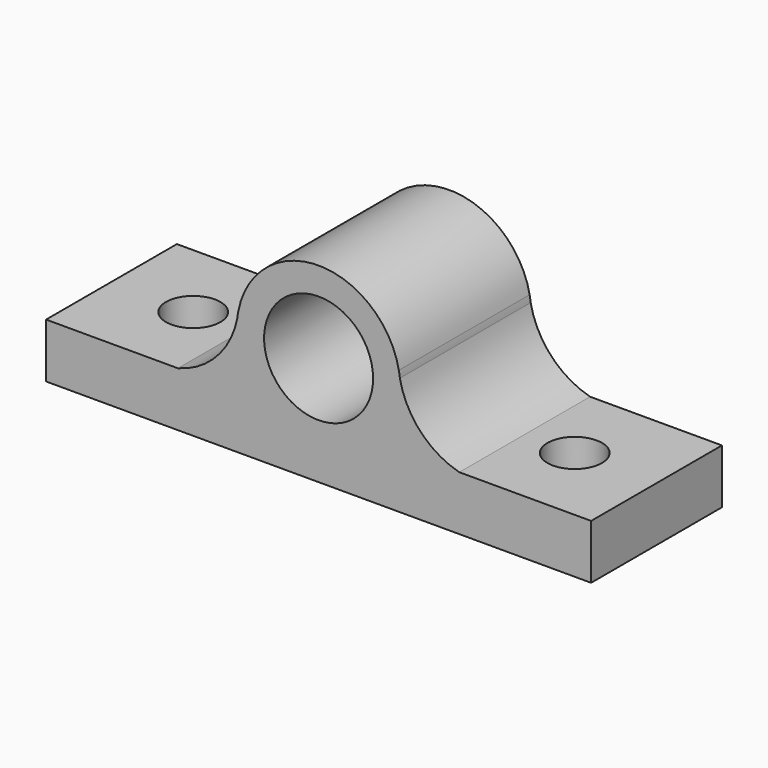
from build123d import *

# Parameters (mm, degrees)
F0_R     = 12.7
F1_DEPTH = 38.1
F2_R     = 6.35
F3_DEPTH = 25.4


with BuildPart() as f1:
    # F0 (on Front) → F1 (new body)
    with BuildSketch(Plane.XZ):
        with BuildLine():
            Line((-103.032803, -9.998872), (23.967197, -9.998872))
            Line((23.967197, -9.998872), (23.967197, 2.701128))
            Line((23.967197, 2.701128), (-6.750105, 2.701128))
            ThreePointArc((-6.750105, 2.701128), (-15.802905, 8.10209), (-20.597679, 17.490047))
            ThreePointArc((-20.597679, 17.490047), (-20.730839, 18.259479), (-20.832355, 19.03372))
            ThreePointArc((-20.832355, 19.03372), (-39.532803, 34.451128), (-58.233251, 19.03372))
            ThreePointArc((-58.233251, 19.03372), (-58.334767, 18.259479), (-58.467927, 17.490047))
            ThreePointArc((-58.467927, 17.490047), (-63.262701, 8.10209), (-72.315501, 2.701128))
            Line((-72.315501, 2.701128), (-103.032803, 2.701128))
            Line((-103.032803, 2.701128), (-103.032803, -9.998872))
        make_face()
        with Locations((-39.532803, 15.401128)):
            Circle(F0_R, mode=Mode.SUBTRACT)
        with BuildLine():
            ThreePointArc((-20.832355, 19.03372), (-20.730839, 18.259479), (-20.597679, 17.490047))
            ThreePointArc((-20.597679, 17.490047), (-20.699195, 18.264289), (-20.832355, 19.03372))
        make_face()
        with BuildLine():
            ThreePointArc((-58.233251, 19.03372), (-58.366411, 18.264289), (-58.467927, 17.490047))
            ThreePointArc((-58.467927, 17.490047), (-58.334767, 18.259479), (-58.233251, 19.03372))
        make_face()
    extrude(amount=F1_DEPTH)

    # F2 (on face) → F3 (cut)
    with BuildSketch(Plane.XY.offset(2.701128)):
        with Locations((-83.982803, -19.05)):
            Circle(F2_R)
        with Locations((4.917197, -19.05)):
            Circle(F2_R)
    extrude(amount=-F3_DEPTH, mode=Mode.SUBTRACT)


solid = f1.part
